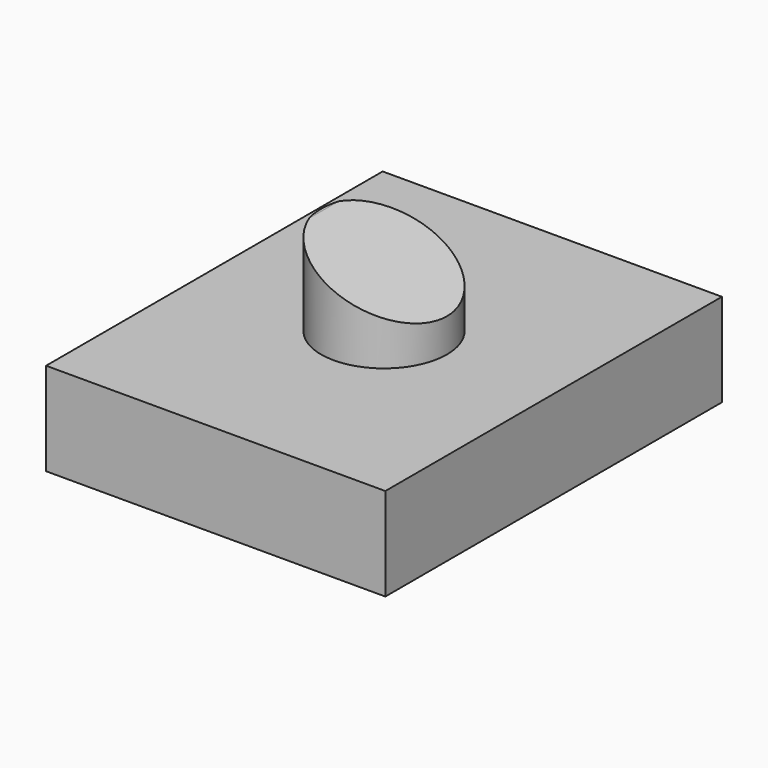
from build123d import *

# Parameters (mm, degrees)
F0_W          = 61.2063445151
F0_H          = 75.9055092931
F1_DEPTH      = 16.764
F2_R          = 11.3569479506
F3_DEPTH      = 15.748
F5_DEPTH      = 25.4
F5_DEPTH_BACK = 25.4


with BuildPart() as f1:
    # F0 (on Top) → F1 (new body)
    with BuildSketch(Plane.XY):
        Rectangle(F0_W, F0_H)
    extrude(amount=F1_DEPTH)

    # F2 (on face) → F3 (join)
    with BuildSketch(Plane.XY.offset(16.764)):
        Circle(F2_R)
    extrude(amount=F3_DEPTH)

    # F4 (on Front) → F5 (cut, two sides)
    with BuildSketch(Plane.XZ) as f5_sk:
        Polygon((12.6237450168, 32.6778665185), (-11.2310564145, 32.6778665185), (12.6237450168, 22.2839899361), align=None)
    extrude(amount=-F5_DEPTH, mode=Mode.SUBTRACT)
    extrude(f5_sk.sketch, amount=F5_DEPTH_BACK, mode=Mode.SUBTRACT)


solid = f1.part
